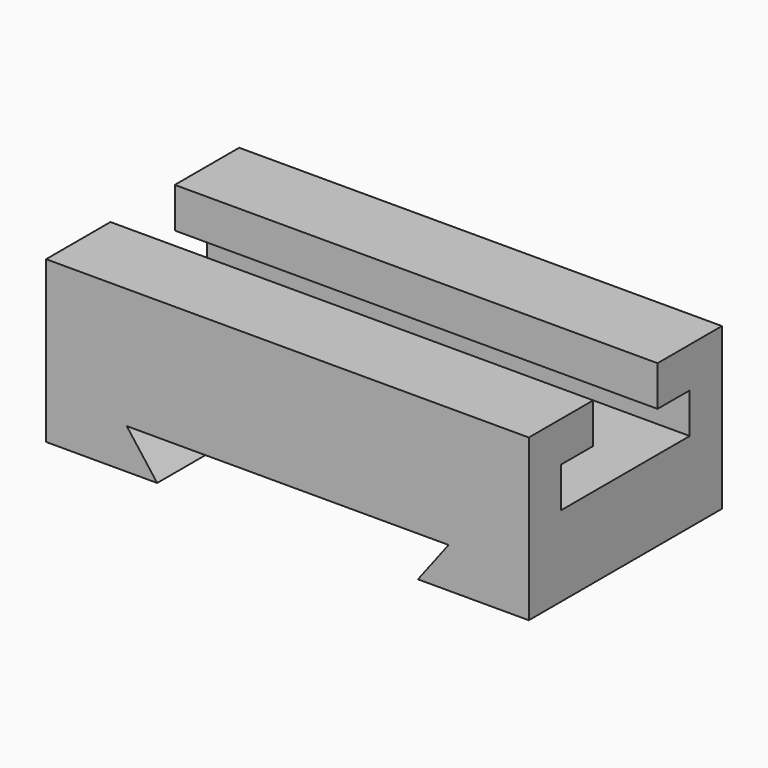
from build123d import *

# Parameters (mm, degrees)
F0_W     = 152.4
F0_H     = 50.8
F1_DEPTH = 76.2
F3_DEPTH = 76.2
F5_DEPTH = 152.4


with BuildPart() as f1:
    # F0 (on Front) → F1 (new body)
    with BuildSketch(Plane.XZ):
        with Locations((-0.068524, 25.4)):
            Rectangle(F0_W, F0_H)
    extrude(amount=F1_DEPTH)

    # F2 (on face) → F3 (cut, through all)
    with BuildSketch(Plane.XZ.offset(76.2)):
        Polygon((0, 12.7), (0, 0), (41.121963, 0), (50.8, 12.7), align=None)
        Polygon((-41.190486, 0), (0, 0), (0, 12.7), (-50.8, 12.7), align=None)
    extrude(amount=-F3_DEPTH, mode=Mode.SUBTRACT)

    # F4 (on face) → F5 (cut, through all)
    with BuildSketch(Plane.YZ.offset(76.131476)):
        Polygon((-63.5, 25.4), (-12.7, 25.4), (-12.7, 38.1), (-25.4, 38.1), (-25.4, 50.8), (-49.570005, 50.8), (-50.8, 50.8), (-50.8, 38.1), (-63.5, 38.1), align=None)
    extrude(amount=-F5_DEPTH, mode=Mode.SUBTRACT)


solid = f1.part
